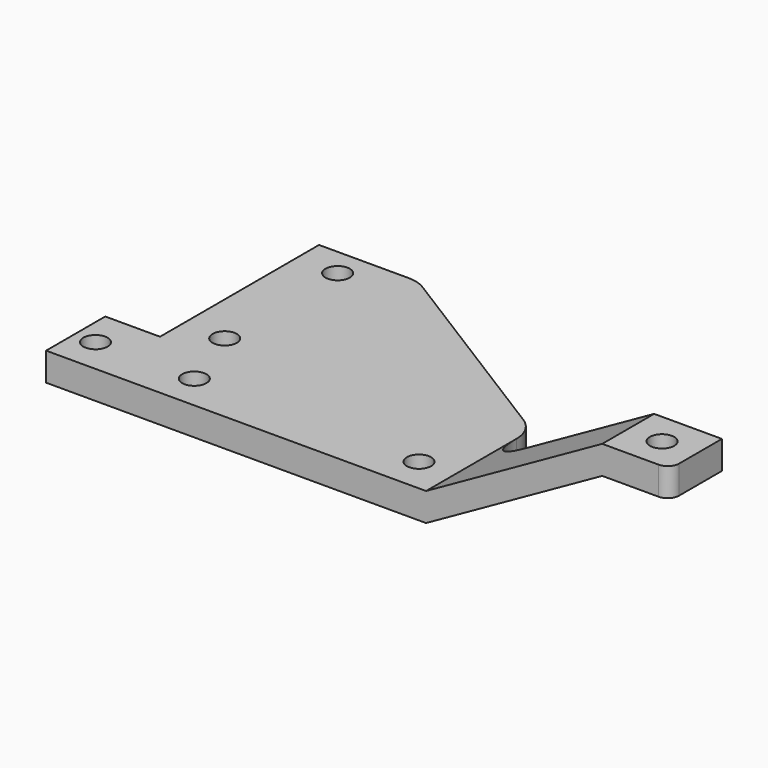
from build123d import *

# Parameters (mm, degrees)
SKETCH_R        = 4.3
PAD_DEPTH       = 10
PAD001_DEPTH    = 23
FILLET_R        = 17
SKETCH002_R     = 4.3
POCKET_DEPTH    = 45.001
FILLET001_R     = 4
SKETCH003_R     = 4.3
POCKET001_DEPTH = 10.001
CHAMFER_SIZE2   = 80
CHAMFER_SIZE    = 50
FILLET002_R     = 11.9


with BuildPart() as part:
    # Sketch → Pad (new body)
    with BuildSketch(Plane.XY):
        Polygon((0.4, 70), (0.4, -0.4), (-19, -0.4), (-19, -26.6), (115.6, -26.6), (115.6, 0), (115.6, 70), align=None)
        with Locations((15, 60)):
            Circle(SKETCH_R, mode=Mode.SUBTRACT)
        with Locations((15, 10)):
            Circle(SKETCH_R, mode=Mode.SUBTRACT)
    extrude(amount=PAD_DEPTH)

    # Sketch001 (on Face4 of Pad) → Pad001 (join)
    with BuildSketch(Plane.XZ.offset(26.6)):
        Polygon((115.6, 0), (178, 35), (202, 35), (202, 45), (178, 45), (115.6, 10), align=None)
    extrude(amount=-PAD001_DEPTH)

    # Fillet
    fillet_edges = [part.edges().sort_by_distance(p)[0] for p in [
        (115.6, -3.6, 5),
    ]]
    fillet(fillet_edges, radius=FILLET_R)

    # Sketch002 (on Face16 of Fillet) → Pocket (cut, through all)
    with BuildSketch(Plane.XY.offset(45)):
        with Locations((190, -15.1)):
            Circle(SKETCH002_R)
    extrude(amount=-POCKET_DEPTH, mode=Mode.SUBTRACT)

    # Fillet001
    fillet001_edges = [part.edges().sort_by_distance(p)[0] for p in [
        (202, -26.6, 40),
    ]]
    fillet(fillet001_edges, radius=FILLET001_R)

    # Sketch003 (on Face9 of Fillet001) → Pocket001 (cut, through all)
    with BuildSketch(Plane.XY.offset(10)):
        with Locations((-11.5, -14.1)):
            Circle(SKETCH003_R)
        with Locations((23.5, -14.1)):
            Circle(SKETCH003_R)
        with Locations((103.1, -14.1)):
            Circle(SKETCH003_R)
    extrude(amount=-POCKET001_DEPTH, mode=Mode.SUBTRACT)

    # Chamfer
    chamfer_edges = [part.edges().sort_by_distance(p)[0] for p in [
        (115.6, 70, 5),
    ]]
    chamfer_side = part.faces().sort_by_distance((115.6, 41.7, 5))[0]
    chamfer(chamfer_edges, length=CHAMFER_SIZE, length2=CHAMFER_SIZE2, reference=chamfer_side)

    # Fillet002
    fillet002_edges = [part.edges().sort_by_distance(p)[0] for p in [
        (115.6, 20, 5),
        (35.6, 70, 5),
    ]]
    fillet(fillet002_edges, radius=FILLET002_R)


solid = part.part
